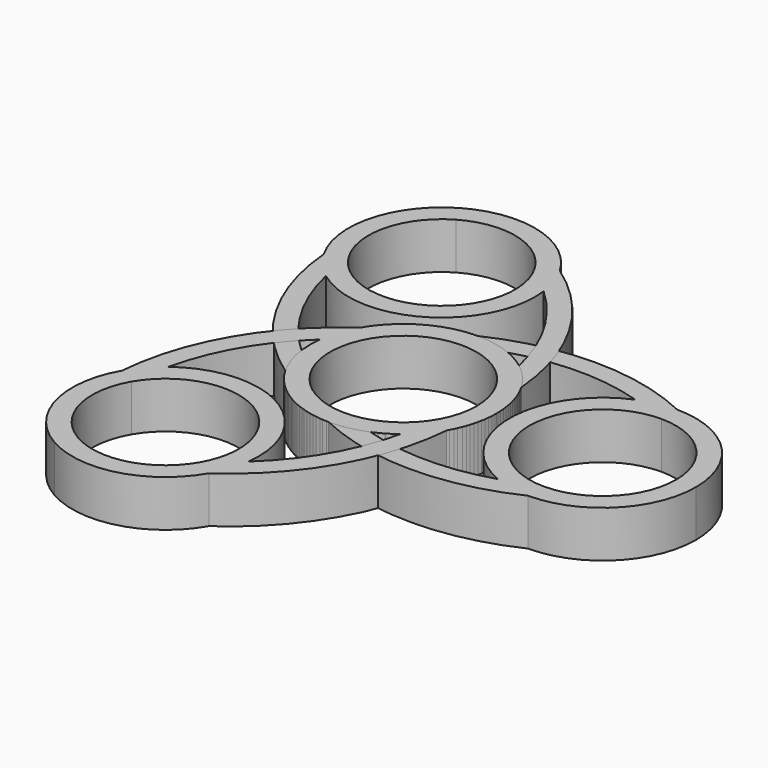
from build123d import *

# Parameters (mm, degrees)
F0_R     = 11.025
F1_DEPTH = 7
F2_COUNT = 3


with BuildPart() as f1:
    # F0 (on Top) → F1 (new body)
    with BuildSketch(Plane.XY):
        with BuildLine():
            Line((30, 11.025), (30, 14.025))
            ThreePointArc((30, 14.025), (27.23518, 13.749778), (24.578873, 12.934914))
            ThreePointArc((24.578873, 12.934914), (15.975, 0), (24.578873, -12.934914))
            ThreePointArc((24.578873, -12.934914), (27.23518, -13.749778), (30, -14.025))
            Line((30, -14.025), (30, -11.025))
            ThreePointArc((30, -11.025), (18.975, 0), (30, 11.025))
        make_face()
        with BuildLine():
            ThreePointArc((44.025, 0), (39.917173, 9.917173), (30, 14.025))
            Line((30, 14.025), (30, 11.025))
            ThreePointArc((30, 11.025), (37.795852, 7.795852), (41.025, 0))
            ThreePointArc((41.025, 0), (37.795852, -7.795852), (30, -11.025))
            Line((30, -11.025), (30, -14.025))
            ThreePointArc((30, -14.025), (39.917173, -9.917173), (44.025, 0))
        make_face()
        with BuildLine():
            ThreePointArc((30, 14.025), (15, 17.402223), (0, 14.025))
            ThreePointArc((0, 14.025), (2.76482, 13.749778), (5.421127, 12.934914))
            ThreePointArc((5.421127, 12.934914), (15, 14.402223), (24.578873, 12.934914))
            ThreePointArc((24.578873, 12.934914), (27.23518, 13.749778), (30, 14.025))
        make_face()
        with BuildLine():
            ThreePointArc((5.421127, -12.934914), (2.76482, -13.749778), (0, -14.025))
            ThreePointArc((0, -14.025), (15, -17.402223), (30, -14.025))
            ThreePointArc((30, -14.025), (27.23518, -13.749778), (24.578873, -12.934914))
            ThreePointArc((24.578873, -12.934914), (15, -14.402223), (5.421127, -12.934914))
        make_face()
        with BuildLine():
            ThreePointArc((5.421127, 12.934914), (2.76482, 13.749778), (0, 14.025))
            ThreePointArc((0, 14.025), (-14.025, 0), (0, -14.025))
            ThreePointArc((0, -14.025), (2.76482, -13.749778), (5.421127, -12.934914))
            ThreePointArc((5.421127, -12.934914), (11.677584, -7.767539), (14.025, 0))
            ThreePointArc((14.025, 0), (11.677584, 7.767539), (5.421127, 12.934914))
        make_face()
        Circle(F0_R, mode=Mode.SUBTRACT)
    extrude(amount=F1_DEPTH)


with BuildPart() as f2_1:
    # F2: instance of F1
    add(f1.part.rotate(Axis((0, 0, 7), (0, 0, 1)), 1 * 360 / F2_COUNT))


with BuildPart() as f2_2:
    # F2: instance of F1
    add(f1.part.rotate(Axis((0, 0, 7), (0, 0, 1)), 2 * 360 / F2_COUNT))


solid = Compound([f1.part, f2_1.part, f2_2.part])
